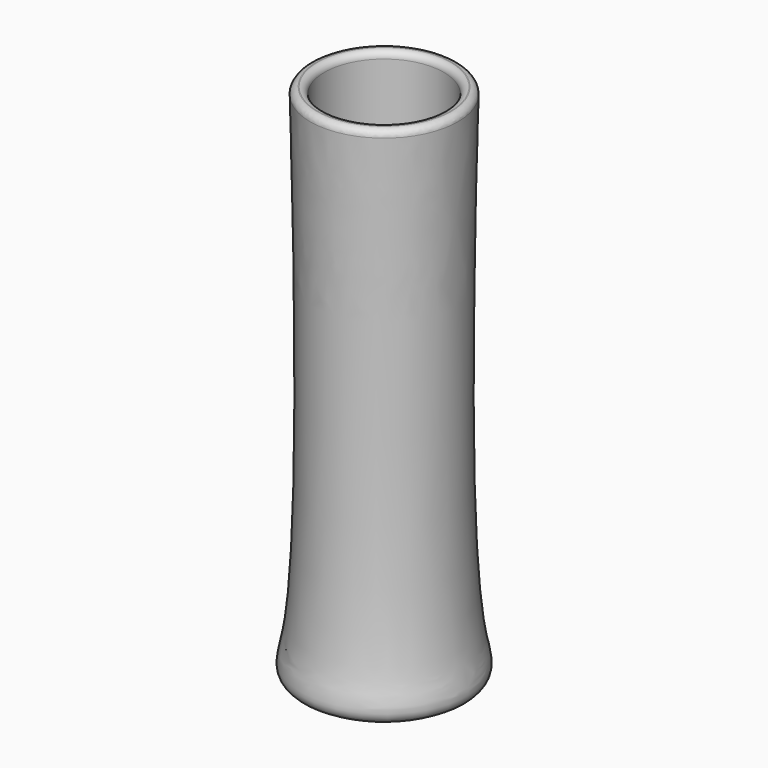
from build123d import *

# Parameters (mm, degrees)
F2_R = 1.4


with BuildPart() as f1:
    # F0 (on Front) → F1 (revolve)
    with BuildSketch(Plane.XZ):
        with BuildLine():
            Line((15.5, 110), (12.5, 110))
            Line((12.5, 110), (12.5, 3))
            Line((12.5, 3), (0, 3))
            Line((0, 3), (0, 0))
            Line((0, 0), (7.0122866566, 0))
            add(Edge.make_bspline(
                [(7.0122866566, 0), (15.0093450272, 0), (18.7410407809, 2.1277590234), (14.434704448, 13.4428260048), (14.1639093859, 57.86953984), (15.5, 110)],
                knots=[0, 0, 0, 0, 0.2079043563, 0.3702721943, 1, 1, 1, 1], degree=3))
        make_face()
    revolve(axis=Axis((0, 0, 57.9248592257), (0, 0, 1)))

    # F2
    f2_edges = [f1.edges().sort_by_distance(p)[0] for p in [
        (-15.5, 0, 110),
        (-12.5, 0, 110),
    ]]
    fillet(f2_edges, radius=F2_R)


solid = f1.part
